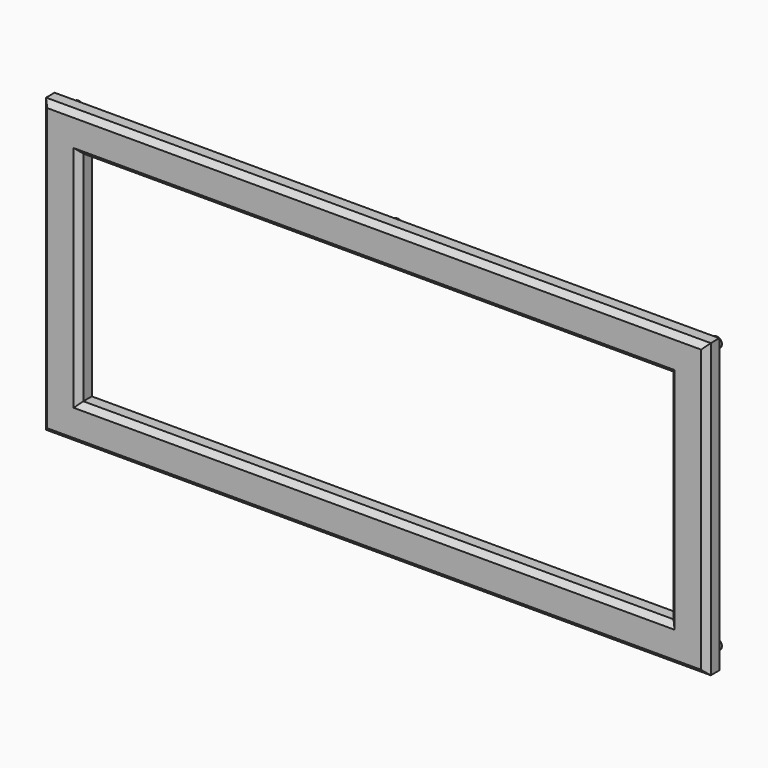
from build123d import *

# Parameters (mm, degrees)
F0_W     = 125
F0_H     = 55
F0_W_2   = 111
F0_H_2   = 41
F1_DEPTH = 3
F2_R     = 1
F3_DEPTH = 2.5
F4_SIZE  = 1


with BuildPart() as f1:
    # F0 (on Front) → F1 (new body)
    with BuildSketch(Plane.XZ):
        with Locations((62.5, 27.5)):
            Rectangle(F0_W, F0_H)
        with Locations((62.5, 27.5)):
            Rectangle(F0_W_2, F0_H_2, mode=Mode.SUBTRACT)
    extrude(amount=F1_DEPTH)

    # F2 (on face) → F3 (join)
    with BuildSketch(Plane(origin=(0, 0, 0), x_dir=(-1, 0, 0), z_dir=(0, 1, 0))):
        with Locations((-2.5, 52.5)):
            Circle(F2_R)
        with Locations((-62.5, 2.5)):
            Circle(F2_R)
        with Locations((-122.5, 52.5)):
            Circle(F2_R)
        with Locations((-122.5, 2.5)):
            Circle(F2_R)
        with Locations((-62.5, 52.5)):
            Circle(F2_R)
        with Locations((-2.5, 2.5)):
            Circle(F2_R)
    extrude(amount=F3_DEPTH)

    # F4
    f4_edges = [f1.edges().sort_by_distance(p)[0] for p in [
        (0, -3, 27.5),
        (62.5, -3, 0),
        (125, -3, 27.5),
        (62.5, -3, 55),
        (62.5, -3, 48),
        (118, -3, 27.5),
        (62.5, -3, 7),
        (7, -3, 27.5),
    ]]
    chamfer(f4_edges, length=F4_SIZE)


solid = f1.part
